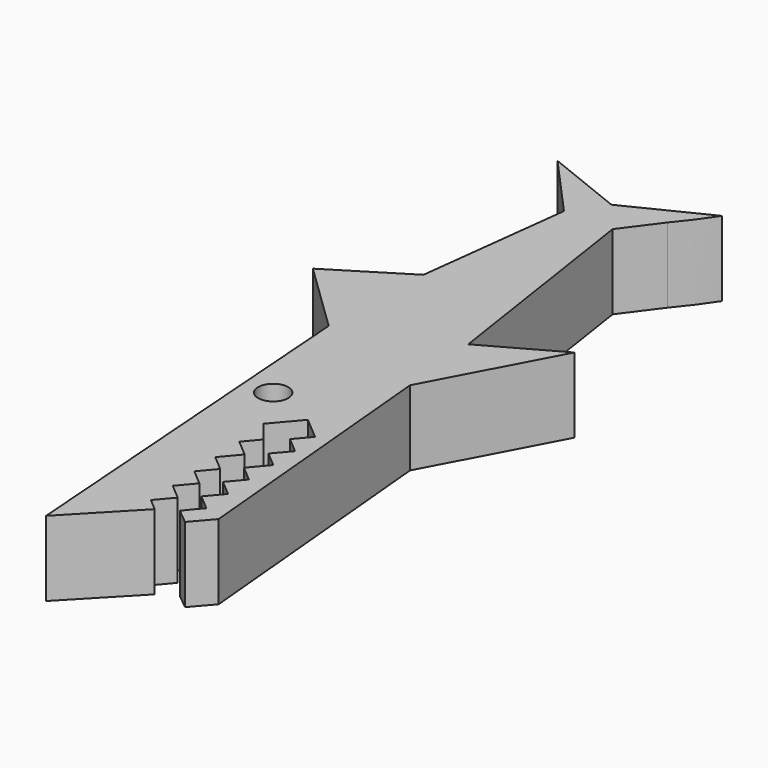
from build123d import *

# Parameters (mm, degrees)
F0_R     = 1
F1_DEPTH = 5


with BuildPart() as f1:
    # F0 (on Top) → F1 (new body)
    with BuildSketch(Plane.XY):
        with BuildLine():
            add(Edge.make_bspline(
                [(7.693045, 0.489857), (7.064082, 9.124408), (6.435119, 17.758959), (5.806156, 26.39351)],
                knots=[0, 0, 0, 0, 25.972286, 25.972286, 25.972286, 25.972286], degree=3))
            Line((7.693045, 0.489857), (11.638039, 4.607475))
            Line((11.638039, 4.607475), (10.839293, 5.28573))
            Line((10.839293, 5.28573), (11.760553, 6.370649))
            Line((11.760553, 6.370649), (10.722407, 7.252192))
            Line((10.722407, 7.252192), (11.638039, 8.330484))
            Line((11.638039, 8.330484), (10.581676, 9.227495))
            Line((10.581676, 9.227495), (11.471978, 10.275956))
            Line((11.471978, 10.275956), (10.435367, 11.156196))
            Line((10.435367, 11.156196), (11.443965, 12.343969))
            Line((11.443965, 12.343969), (10.32334, 13.295549))
            Line((10.32334, 13.295549), (11.154807, 14.274724))
            Line((11.154807, 14.274724), (10.050478, 15.66664))
            Line((10.050478, 15.66664), (11.568329, 17.454133))
            Line((11.568329, 17.454133), (13.063904, 16.184165))
            Line((13.063904, 16.184165), (12.202819, 15.170112))
            Line((12.202819, 15.170112), (13.257269, 14.274724))
            Line((13.257269, 14.274724), (12.345023, 13.200421))
            Line((12.345023, 13.200421), (13.353622, 12.343969))
            Line((13.353622, 12.343969), (12.345023, 11.156196))
            Line((12.345023, 11.156196), (13.381635, 10.275956))
            Line((13.381635, 10.275956), (12.491333, 9.227495))
            Line((12.491333, 9.227495), (13.547695, 8.330484))
            Line((13.547695, 8.330484), (12.632063, 7.252192))
            Line((12.632063, 7.252192), (13.67021, 6.370649))
            Line((13.67021, 6.370649), (13.197073, 5.813461))
            Line((13.197073, 5.813461), (12.770227, 5.28573))
            add(Edge.make_bspline(
                [(13.769604, 4.466838), (13.436479, 4.739802), (13.103353, 5.012766), (12.770227, 5.28573)],
                knots=[0, 0, 0, 0, 1.292029, 1.292029, 1.292029, 1.292029], degree=3))
            add(Edge.make_bspline(
                [(14.934251, 5.813461), (14.546035, 5.364587), (14.15782, 4.915712), (13.769604, 4.466838)],
                knots=[0, 0, 0, 0, 1.780392, 1.780392, 1.780392, 1.780392], degree=3))
            add(Edge.make_bspline(
                [(13.289604, 23.814345), (13.83782, 17.81405), (14.386036, 11.813755), (14.934251, 5.813461)],
                knots=[0, 0, 0, 0, 18.075859, 18.075859, 18.075859, 18.075859], degree=3))
            add(Edge.make_bspline(
                [(17.661029, 32.037817), (16.203888, 29.29666), (14.746746, 26.555502), (13.289604, 23.814345)],
                knots=[0, 0, 0, 0, 9.313155, 9.313155, 9.313155, 9.313155], degree=3))
            add(Edge.make_bspline(
                [(12.770227, 29.311087), (14.400495, 30.219997), (16.030762, 31.128907), (17.661029, 32.037817)],
                knots=[0, 0, 0, 0, 5.599554, 5.599554, 5.599554, 5.599554], degree=3))
            add(Edge.make_bspline(
                [(10.531368, 44.142015), (11.277654, 39.198373), (12.023941, 34.25473), (12.770227, 29.311087)],
                knots=[0, 0, 0, 0, 14.998964, 14.998964, 14.998964, 14.998964], degree=3))
            add(Edge.make_bspline(
                [(12.2857, 46.500597), (11.653371, 45.717337), (11.021041, 44.934078), (10.531368, 44.142015)],
                knots=[2.939488, 2.939488, 2.939488, 2.939488, 5.878976, 5.878976, 5.878976, 5.878976], degree=3))
            Line((12.2857, 46.500597), (14.040033, 48.859179))
            add(Edge.make_bspline(
                [(9.96209, 46.84221), (11.217791, 47.44206), (12.906654, 48.222175), (14.040033, 48.859179)],
                knots=[1.635184, 1.635184, 1.635184, 1.635184, 5.888303, 5.888303, 5.888303, 5.888303], degree=3))
            Line((9.96209, 46.84221), (8.762033, 46.248656))
            add(Edge.make_bspline(
                [(3.484468, 48.358951), (5.243656, 47.655519), (7.002845, 46.952087), (8.762033, 46.248656)],
                knots=[0, 0, 0, 0, 5.68384, 5.68384, 5.68384, 5.68384], degree=3))
            add(Edge.make_bspline(
                [(7.285437, 44.142015), (6.018447, 45.54766), (4.751458, 46.953306), (3.484468, 48.358951)],
                knots=[0, 0, 0, 0, 5.677139, 5.677139, 5.677139, 5.677139], degree=3))
            add(Edge.make_bspline(
                [(6.060782, 33.975713), (6.469, 37.36448), (6.877219, 40.753248), (7.285437, 44.142015)],
                knots=[0, 0, 0, 0, 10.239799, 10.239799, 10.239799, 10.239799], degree=3))
            add(Edge.make_bspline(
                [(1.129528, 30.918069), (2.773279, 31.937284), (4.417031, 32.956498), (6.060782, 33.975713)],
                knots=[0, 0, 0, 0, 5.80228, 5.80228, 5.80228, 5.80228], degree=3))
            add(Edge.make_bspline(
                [(5.806156, 26.39351), (4.24728, 27.901697), (2.688404, 29.409883), (1.129528, 30.918069)],
                knots=[0, 0, 0, 0, 6.50711, 6.50711, 6.50711, 6.50711], degree=3))
        make_face()
        with Locations((8.249205, 18.715588)):
            Circle(F0_R, mode=Mode.SUBTRACT)
        with BuildLine():
            add(Edge.make_bspline(
                [(8.762033, 46.248656), (9.060568, 46.40761), (9.479315, 46.611587), (9.96209, 46.84221)],
                knots=[0, 0, 0, 0, 1.635184, 1.635184, 1.635184, 1.635184], degree=3))
            Line((8.762033, 46.248656), (9.96209, 46.84221))
        make_face()
        with BuildLine():
            Line((14.040033, 48.859179), (9.96209, 46.84221))
            add(Edge.make_bspline(
                [(9.96209, 46.84221), (11.217791, 47.44206), (12.906654, 48.222175), (14.040033, 48.859179)],
                knots=[1.635184, 1.635184, 1.635184, 1.635184, 5.888303, 5.888303, 5.888303, 5.888303], degree=3))
        make_face()
        with BuildLine():
            add(Edge.make_bspline(
                [(14.040033, 48.859179), (13.550359, 48.067116), (12.91803, 47.283857), (12.2857, 46.500597)],
                knots=[0, 0, 0, 0, 2.939488, 2.939488, 2.939488, 2.939488], degree=3))
            Line((14.040033, 48.859179), (12.2857, 46.500597))
        make_face()
        with BuildLine():
            Line((10.531368, 44.142015), (12.2857, 46.500597))
            add(Edge.make_bspline(
                [(12.2857, 46.500597), (11.653371, 45.717337), (11.021041, 44.934078), (10.531368, 44.142015)],
                knots=[2.939488, 2.939488, 2.939488, 2.939488, 5.878976, 5.878976, 5.878976, 5.878976], degree=3))
        make_face()
    extrude(amount=F1_DEPTH)


solid = f1.part
